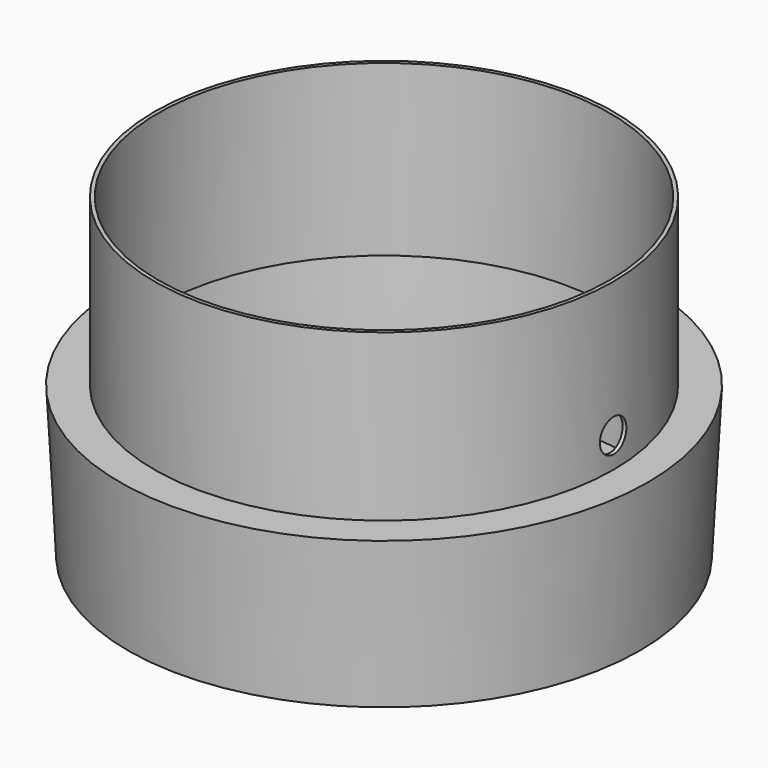
from build123d import *

# Parameters (mm, degrees)
F0_R     = 170
F1_DEPTH = 100
F1_TAPER = -3
F7_R     = 152.5
F2_DEPTH = 110
F4_T     = -2.5
F6_D     = 22
F6_DEPTH = 200
F6_START = 47.8972388
F6_TIP   = 6.6094668093


with BuildPart() as f1:
    # F0 (on Top) → F1 (new body)
    with BuildSketch(Plane.XY):
        Circle(F0_R)
    extrude(amount=F1_DEPTH, taper=F1_TAPER)

    # F7 (on face) → F2 (join)
    with BuildSketch(Plane.XY.offset(100)):
        Circle(F7_R)
    extrude(amount=F2_DEPTH)

    # F4
    f4_openings = [f1.faces().sort_by_distance(p)[0] for p in [
        (0, 0, 210),
    ]]
    offset(amount=F4_T, openings=f4_openings, kind=Kind.INTERSECTION)

    # F6
    # its depths count from where the whole tool has entered the part; down to there all is cleared
    with Locations(Plane.YZ.offset(200).offset(-F6_START)):
        with Locations((0, 120)):
            Hole(F6_D / 2, depth=F6_DEPTH)
            with Locations((0, 0, -(F6_DEPTH + F6_TIP / 2))):  # 118° drill point
                Cone(0, F6_D / 2, F6_TIP, mode=Mode.SUBTRACT)


solid = f1.part
